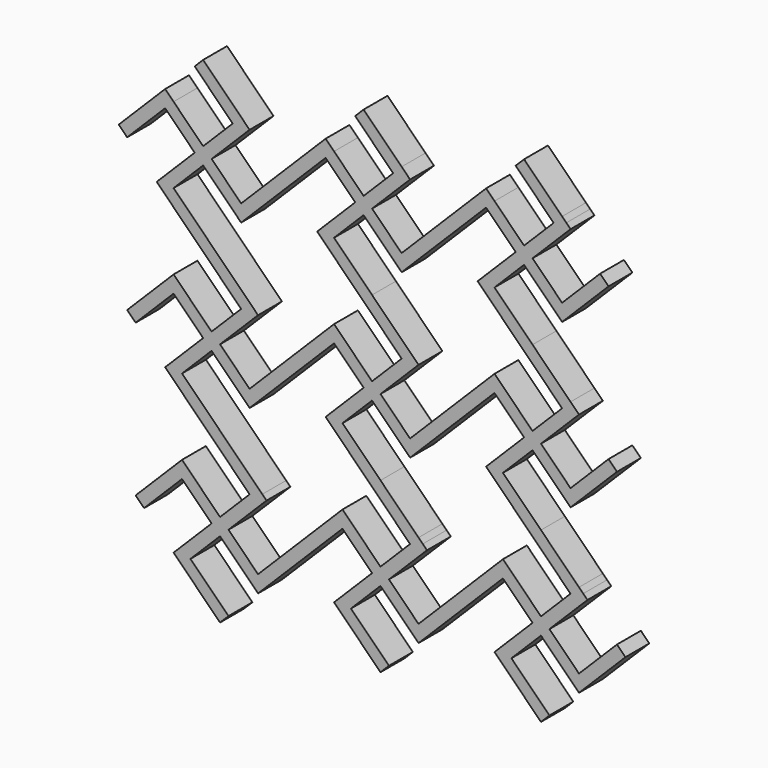
from build123d import *

# Parameters (mm, degrees)
F1_DEPTH = 5


with BuildPart() as f1:
    # F0 (on Front) → F1 (new body)
    with BuildSketch(Plane.XZ):
        Polygon((6.3639610307, -7.7781745931), (7.0710678119, -7.0710678119), (7.7781745931, -6.3639610307), (14.1421356237, 0), (12.7279220614, 1.4142135624), (6.3639610307, -4.9497474683), (1.4142135624, 0), (6.3639610307, 4.9497474683), (7.7781745931, 6.3639610307), (7.0710678119, 7.0710678119), (6.3639610307, 7.7781745931), (0, 14.1421356237), (-6.3639610307, 20.5060966544), (-1.4142135624, 25.4558441227), (3.5355339059, 20.5060966544), (4.9497474683, 19.091883092), (5.6568542495, 19.7989898732), (6.3639610307, 20.5060966544), (12.7279220614, 26.8700576851), (11.313708499, 28.2842712475), (4.9497474683, 21.9203102168), (0, 26.8700576851), (4.9497474683, 31.8198051534), (6.3639610307, 33.2340187158), (5.6568542495, 33.941125497), (4.9497474683, 34.6482322781), (-1.4142135624, 41.0121933088), (-2.8284271247, 39.5979797464), (3.5355339059, 33.2340187158), (-1.4142135624, 28.2842712475), (-6.3639610307, 33.2340187158), (-7.7781745931, 34.6482322781), (-8.4852813742, 33.941125497), (-9.1923881554, 33.2340187158), (-15.5563491861, 26.8700576851), (-21.9203102168, 20.5060966544), (-26.8700576851, 25.4558441227), (-21.9203102168, 30.405591591), (-20.5060966544, 31.8198051534), (-21.2132034356, 32.5269119346), (-21.9203102168, 33.2340187158), (-28.2842712475, 39.5979797464), (-29.6984848098, 38.1837661841), (-23.3345237792, 31.8198051534), (-28.2842712475, 26.8700576851), (-33.2340187158, 31.8198051534), (-34.6482322781, 33.2340187158), (-35.3553390593, 32.5269119346), (-36.0624458405, 31.8198051534), (-42.4264068712, 25.4558441227), (-48.7903679019, 19.091883092), (-53.7401153702, 24.0416305603), (-48.7903679019, 28.9913780286), (-47.3761543395, 30.405591591), (-48.0832611207, 31.1126983722), (-48.7903679019, 31.8198051534), (-55.1543289326, 38.1837661841), (-56.5685424949, 36.7695526217), (-50.2045814642, 30.405591591), (-55.1543289326, 25.4558441227), (-60.1040764009, 30.405591591), (-61.5182899632, 31.8198051534), (-62.2253967444, 31.1126983722), (-62.9325035256, 30.405591591), (-69.2964645563, 24.0416305603), (-67.8822509939, 22.627416998), (-61.5182899632, 28.9913780286), (-56.5685424949, 24.0416305603), (-61.5182899632, 19.091883092), (-62.9325035256, 17.6776695297), (-62.2253967444, 16.9705627485), (-61.5182899632, 16.2634559673), (-55.1543289326, 9.8994949366), (-48.7903679019, 3.5355339059), (-53.7401153702, -1.4142135624), (-58.6898628385, 3.5355339059), (-60.1040764009, 4.9497474683), (-60.811183182, 4.2426406871), (-61.5182899632, 3.5355339059), (-67.8822509939, -2.8284271247), (-66.4680374315, -4.2426406871), (-60.1040764009, 2.1213203436), (-55.1543289326, -2.8284271247), (-60.1040764009, -7.7781745931), (-61.5182899632, -9.1923881554), (-60.811183182, -9.8994949366), (-60.1040764009, -10.6066017178), (-53.7401153702, -16.9705627485), (-47.3761543395, -23.3345237792), (-52.3259018078, -28.2842712475), (-57.2756492761, -23.3345237792), (-58.6898628385, -21.9203102168), (-59.3969696197, -22.627416998), (-60.1040764009, -23.3345237792), (-66.4680374315, -29.6984848098), (-65.0538238692, -31.1126983722), (-58.6898628385, -24.7487373415), (-53.7401153702, -29.6984848098), (-58.6898628385, -34.6482322781), (-60.1040764009, -36.0624458405), (-59.3969696197, -36.7695526217), (-58.6898628385, -37.4766594029), (-52.3259018078, -43.8406204336), (-50.9116882454, -42.4264068712), (-57.2756492761, -36.0624458405), (-52.3259018078, -31.1126983722), (-47.3761543395, -36.0624458405), (-45.9619407771, -37.4766594029), (-45.2548339959, -36.7695526217), (-44.5477272148, -36.0624458405), (-38.1837661841, -29.6984848098), (-31.8198051534, -23.3345237792), (-26.8700576851, -28.2842712475), (-31.8198051534, -33.2340187158), (-33.2340187158, -34.6482322781), (-32.5269119346, -35.3553390593), (-31.8198051534, -36.0624458405), (-25.4558441227, -42.4264068712), (-24.0416305603, -41.0121933088), (-30.405591591, -34.6482322781), (-25.4558441227, -29.6984848098), (-20.5060966544, -34.6482322781), (-19.091883092, -36.0624458405), (-18.3847763109, -35.3553390593), (-17.6776695297, -34.6482322781), (-11.313708499, -28.2842712475), (-4.9497474683, -21.9203102168), (0, -26.8700576851), (-4.9497474683, -31.8198051534), (-6.3639610307, -33.2340187158), (-5.6568542495, -33.941125497), (-4.9497474683, -34.6482322781), (1.4142135624, -41.0121933088), (2.8284271247, -39.5979797464), (-3.5355339059, -33.2340187158), (1.4142135624, -28.2842712475), (6.3639610307, -33.2340187158), (7.7781745931, -34.6482322781), (8.4852813742, -33.941125497), (9.1923881554, -33.2340187158), (15.5563491861, -26.8700576851), (14.1421356237, -25.4558441227), (7.7781745931, -31.8198051534), (2.8284271247, -26.8700576851), (7.7781745931, -21.9203102168), (9.1923881554, -20.5060966544), (8.4852813742, -19.7989898732), (7.7781745931, -19.091883092), (1.4142135624, -12.7279220614), (-4.9497474683, -6.3639610307), (0, -1.4142135624), (4.9497474683, -6.3639610307), align=None)
        Polygon((-34.6482322781, -7.7781745931), (-33.941125497, -8.4852813742), (-33.2340187158, -9.1923881554), (-26.8700576851, -15.5563491861), (-20.5060966544, -21.9203102168), (-25.4558441227, -26.8700576851), (-30.405591591, -21.9203102168), (-31.8198051534, -20.5060966544), (-32.5269119346, -21.2132034356), (-33.2340187158, -21.9203102168), (-39.5979797464, -28.2842712475), (-45.9619407771, -34.6482322781), (-50.9116882454, -29.6984848098), (-45.9619407771, -24.7487373415), (-44.5477272148, -23.3345237792), (-45.2548339959, -22.627416998), (-45.9619407771, -21.9203102168), (-52.3259018078, -15.5563491861), (-58.6898628385, -9.1923881554), (-53.7401153702, -4.2426406871), (-48.7903679019, -9.1923881554), (-47.3761543395, -10.6066017178), (-46.6690475583, -9.8994949366), (-45.9619407771, -9.1923881554), (-39.5979797464, -2.8284271247), (-33.2340187158, 3.5355339059), (-28.2842712475, -1.4142135624), (-33.2340187158, -6.3639610307), align=None, mode=Mode.SUBTRACT)
        Polygon((-7.7781745931, -6.3639610307), (-7.0710678119, -7.0710678119), (-6.3639610307, -7.7781745931), (0, -14.1421356237), (6.3639610307, -20.5060966544), (1.4142135624, -25.4558441227), (-3.5355339059, -20.5060966544), (-4.9497474683, -19.091883092), (-5.6568542495, -19.7989898732), (-6.3639610307, -20.5060966544), (-12.7279220614, -26.8700576851), (-19.091883092, -33.2340187158), (-24.0416305603, -28.2842712475), (-19.091883092, -23.3345237792), (-17.6776695297, -21.9203102168), (-18.3847763109, -21.2132034356), (-19.091883092, -20.5060966544), (-25.4558441227, -14.1421356237), (-31.8198051534, -7.7781745931), (-26.8700576851, -2.8284271247), (-20.5060966544, -9.1923881554), (-19.7989898732, -8.4852813742), (-19.091883092, -7.7781745931), (-12.7279220614, -1.4142135624), (-6.3639610307, 4.9497474683), (-1.4142135624, 0), (-6.3639610307, -4.9497474683), align=None, mode=Mode.SUBTRACT)
        Polygon((-28.2842712475, 11.313708499), (-21.9203102168, 4.9497474683), (-26.8700576851, 0), (-31.8198051534, 4.9497474683), (-33.2340187158, 6.3639610307), (-34.6482322781, 4.9497474683), (-41.0121933088, -1.4142135624), (-47.3761543395, -7.7781745931), (-52.3259018078, -2.8284271247), (-47.3761543395, 2.1213203436), (-45.9619407771, 3.5355339059), (-46.6690475583, 4.2426406871), (-47.3761543395, 4.9497474683), (-53.7401153702, 11.313708499), (-60.1040764009, 17.6776695297), (-55.1543289326, 22.627416998), (-50.2045814642, 17.6776695297), (-48.7903679019, 16.2634559673), (-48.0832611207, 16.9705627485), (-47.3761543395, 17.6776695297), (-41.0121933088, 24.0416305603), (-34.6482322781, 30.405591591), (-29.6984848098, 25.4558441227), (-34.6482322781, 20.5060966544), (-36.0624458405, 19.091883092), (-35.3553390593, 18.3847763109), (-34.6482322781, 17.6776695297), align=None, mode=Mode.SUBTRACT)
        Polygon((-6.3639610307, 7.7781745931), (-7.0710678119, 7.0710678119), (-7.7781745931, 6.3639610307), (-14.1421356237, 0), (-20.5060966544, -6.3639610307), (-25.4558441227, -1.4142135624), (-20.5060966544, 3.5355339059), (-19.091883092, 4.9497474683), (-19.7989898732, 5.6568542495), (-20.5060966544, 6.3639610307), (-26.8700576851, 12.7279220614), (-33.2340187158, 19.091883092), (-28.2842712475, 24.0416305603), (-23.3345237792, 19.091883092), (-21.9203102168, 17.6776695297), (-21.2132034356, 18.3847763109), (-20.5060966544, 19.091883092), (-14.1421356237, 25.4558441227), (-7.7781745931, 31.8198051534), (-2.8284271247, 26.8700576851), (-7.7781745931, 21.9203102168), (-9.1923881554, 20.5060966544), (-8.4852813742, 19.7989898732), (-7.7781745931, 19.091883092), (-1.4142135624, 12.7279220614), (4.9497474683, 6.3639610307), (0, 1.4142135624), (-4.9497474683, 6.3639610307), align=None, mode=Mode.SUBTRACT)
    extrude(amount=F1_DEPTH)


solid = f1.part
